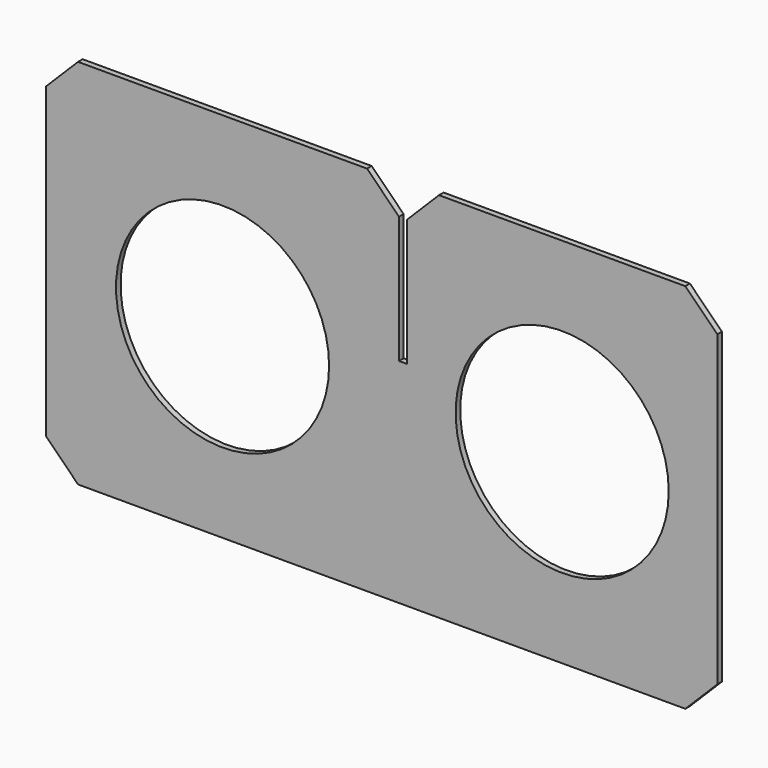
from build123d import *

# Parameters (mm, degrees)
F0_R     = 63.5
F1_DEPTH = 3.429
F2_SIZE  = 19.05


with BuildPart() as f1:
    # F0 (on Front) → F1 (new body)
    with BuildSketch(Plane.XZ):
        Polygon((-200.025, -110.871), (200.025, -110.871), (200.025, 110.871), (15.0876, 110.871), (15.0876, 16.129), (10.3124, 16.129), (10.3124, 110.871), (-200.025, 110.871), align=None)
        with Locations((-94.8563, 0)):
            Circle(F0_R, mode=Mode.SUBTRACT)
        with Locations((107.5563, 0)):
            Circle(F0_R, mode=Mode.SUBTRACT)
    extrude(amount=F1_DEPTH)

    # F2
    f2_edges = [f1.edges().sort_by_distance(p)[0] for p in [
        (-200.025, -1.7145, 110.871),
        (10.3124, -1.7145, 110.871),
        (15.0876, -1.7145, 110.871),
        (200.025, -1.7145, 110.871),
        (200.025, -1.7145, -110.871),
        (-200.025, -1.7145, -110.871),
    ]]
    chamfer(f2_edges, length=F2_SIZE)


solid = f1.part
